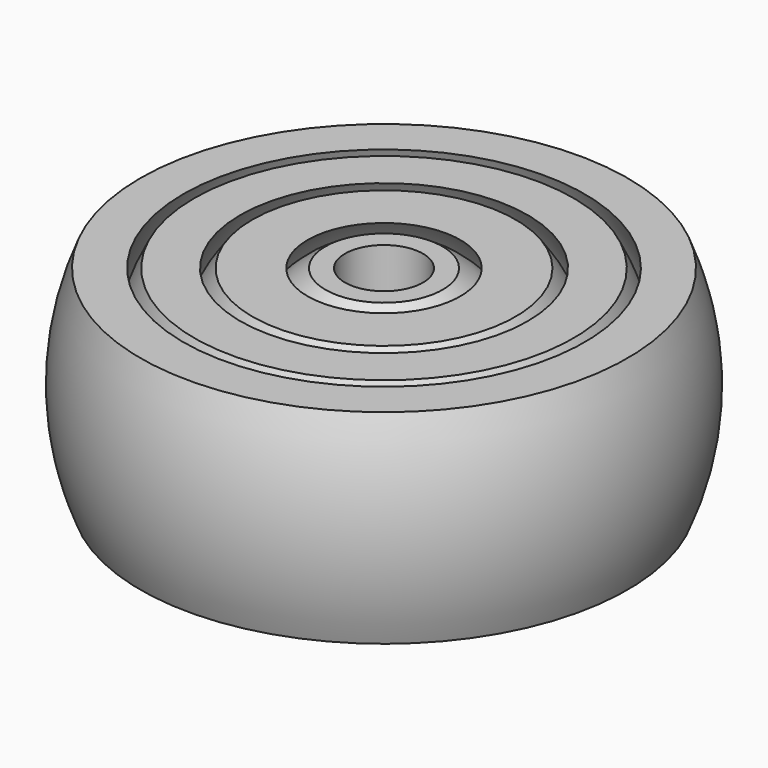
from build123d import *


with BuildPart() as f1:
    # F0 (on Front) → F1 (revolve)
    with BuildSketch(Plane.XZ):
        with BuildLine():
            ThreePointArc((-7.815291679, -10.4377660479), (-13.0393920142, 0), (-7.815291679, 10.4377660479))
            Line((-7.815291679, 10.4377660479), (-13.4682560171, 10.4377660479))
            ThreePointArc((-13.4682560171, 10.4377660479), (-17.0393920142, 0), (-13.4682560171, -10.4377660479))
            Line((-13.4682560171, -10.4377660479), (-7.815291679, -10.4377660479))
        make_face()
    revolve(axis=Axis((0, 0, 0), (0, 0, -1)))


with BuildPart() as f1b:
    # F0 (on Front) → F1, piece 2 (revolve)
    with BuildSketch(Plane.XZ):
        with BuildLine():
            ThreePointArc((-14.7130113903, -10.4377660479), (-18.0393920142, 0), (-14.7130113903, 10.4377660479))
            Line((-14.7130113903, 10.4377660479), (-19.4110236794, 10.4377660479))
            ThreePointArc((-19.4110236794, 10.4377660479), (-22.0393920142, 0), (-19.4110236794, -10.4377660479))
            Line((-19.4110236794, -10.4377660479), (-14.7130113903, -10.4377660479))
        make_face()
    revolve(axis=Axis((0, 0, 0), (0, 0, -1)))


with BuildPart() as f1c:
    # F0 (on Front) → F1, piece 3 (revolve)
    with BuildSketch(Plane.XZ):
        with BuildLine():
            ThreePointArc((-20.5393920142, -10.4377660479), (-23.0393920142, 0), (-20.5393920142, 10.4377660479))
            Line((-20.5393920142, 10.4377660479), (-24.943571525, 10.4377660479))
            ThreePointArc((-24.943571525, 10.4377660479), (-27.0393920142, 0), (-24.943571525, -10.4377660479))
            Line((-24.943571525, -10.4377660479), (-20.5393920142, -10.4377660479))
        make_face()
    revolve(axis=Axis((0, 0, 0), (0, 0, -1)))


with BuildPart() as f1d:
    # F0 (on Front) → F1, piece 4 (revolve)
    with BuildSketch(Plane.XZ):
        with BuildLine():
            Line((-4, 10.4377660479), (-6, 10.4377660479))
            ThreePointArc((-6, 10.4377660479), (-12.0393920142, 0), (-6, -10.4377660479))
            Line((-6, -10.4377660479), (-4, -10.4377660479))
            Line((-4, -10.4377660479), (-4, 10.4377660479))
        make_face()
    revolve(axis=Axis((0, 0, 0), (0, 0, -1)))


solid = Compound([f1.part, f1b.part, f1c.part, f1d.part])
